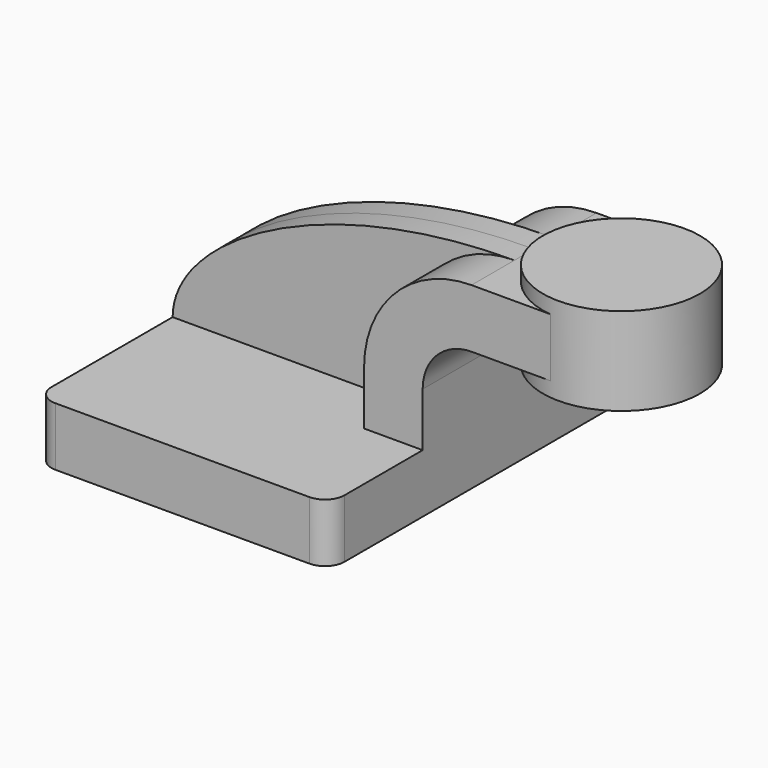
from build123d import *

# Parameters (mm, degrees)
F1_DEPTH = 63.5
F2_DEPTH = 7.9375
F0_W     = 25.248305
F0_H     = 19.05
F3_DEPTH = 25.4
F5_R     = 6.35


with BuildPart() as f1:
    # F0 (on Front) → F1 (new body, symmetric)
    with BuildSketch(Plane.XZ):
        Polygon((28.575, 9.525), (-47.625, 9.525), (-47.625, -9.525), (47.625, -9.525), (47.625, 9.525), align=None)
    extrude(amount=F1_DEPTH, both=True)

    # F0 (on Front) → F2 (join, symmetric)
    with BuildSketch(Plane.XZ):
        with BuildLine():
            add(Edge.make_bspline(
                [(-47.625, 9.525), (-47.625, 33.3817), (0, 61.9252), (63.5, 61.9252)],
                knots=[0, 0, 0, 0, 122.859866, 122.859866, 122.859866, 122.859866], degree=3))
            Line((-47.625, 9.525), (28.575, 9.525))
            Line((28.575, 9.525), (28.575, 27.0002))
            ThreePointArc((28.575, 27.0002), (38.804296, 51.695904), (63.5, 61.9252))
        make_face()
    extrude(amount=F2_DEPTH, both=True)

    # F0 (on Front) → F3 (join, symmetric)
    with BuildSketch(Plane.XZ):
        with BuildLine():
            Line((28.575, 27.0002), (28.575, 9.525))
            Line((28.575, 9.525), (47.625, 9.525))
            Line((47.625, 9.525), (47.625, 27.0002))
            ThreePointArc((47.625, 27.0002), (52.27468, 38.22552), (63.5, 42.8752))
            Line((63.5, 42.8752), (66.675, 42.8752))
            Line((66.675, 42.8752), (66.675, 61.9252))
            Line((66.675, 61.9252), (63.5, 61.9252))
            ThreePointArc((63.5, 61.9252), (38.804296, 51.695904), (28.575, 27.0002))
        make_face()
        with Locations((79.299152, 52.4002)):
            Rectangle(F0_W, F0_H)
    extrude(amount=F3_DEPTH, both=True)

    # F0 (on Front) → F4 (revolve)
    with BuildSketch(Plane.XZ):
        Polygon((91.923305, 66.675), (91.923305, 61.9252), (91.923305, 42.8752), (91.923305, 38.1), (117.475, 38.1), (117.475, 66.675), align=None)
    revolve(axis=Axis((91.923305, 0, 52.3875), (0, 0, -1)))

    # F5
    f5_edges = [f1.edges().sort_by_distance(p)[0] for p in [
        (47.625, -63.5, 0),
        (-47.625, -63.5, 0),
        (-47.625, 63.5, 0),
        (47.625, 63.5, 0),
    ]]
    fillet(f5_edges, radius=F5_R)


solid = f1.part
